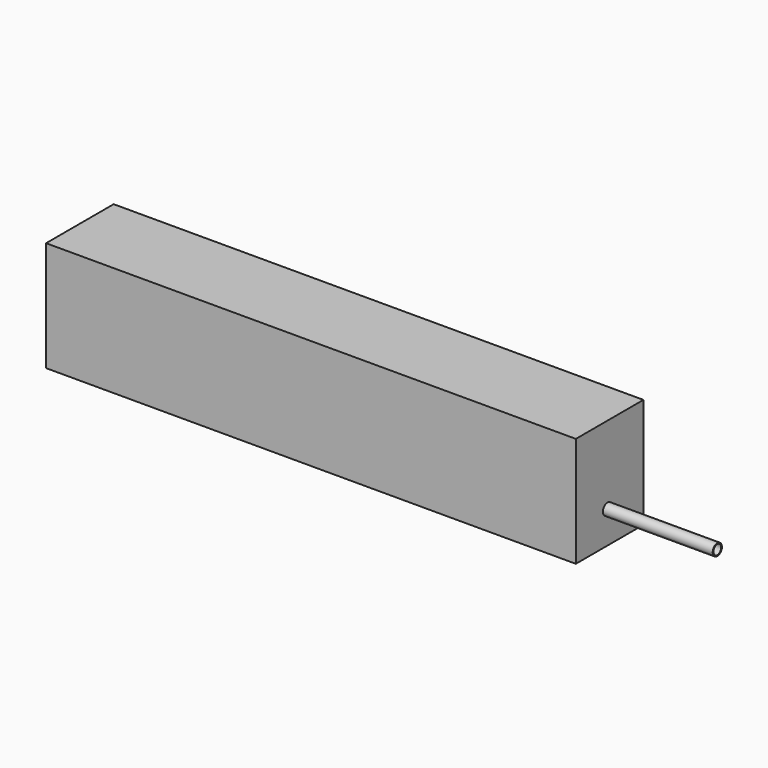
from build123d import *

# Parameters (mm, degrees)
F0_R     = 92.07329
F0_R_2   = 76.804946
F1_DEPTH = 1752.6
F2_W     = 1348.850906
F2_H     = 1756.297738
F3_DEPTH = 8458.2


with BuildPart() as f1:
    # F0 (on Right) → F1 (new body)
    with BuildSketch(Plane.YZ):
        with Locations((-103.598125, 58.999091)):
            Circle(F0_R)
        with Locations((-103.598125, 58.999091)):
            Circle(F0_R_2, mode=Mode.SUBTRACT)
    extrude(amount=F1_DEPTH)

    # F2 (on Right) → F3 (join)
    with BuildSketch(Plane.YZ):
        with Locations((-61.749667, 424.132988)):
            Rectangle(F2_W, F2_H)
    extrude(amount=-F3_DEPTH)


solid = f1.part
